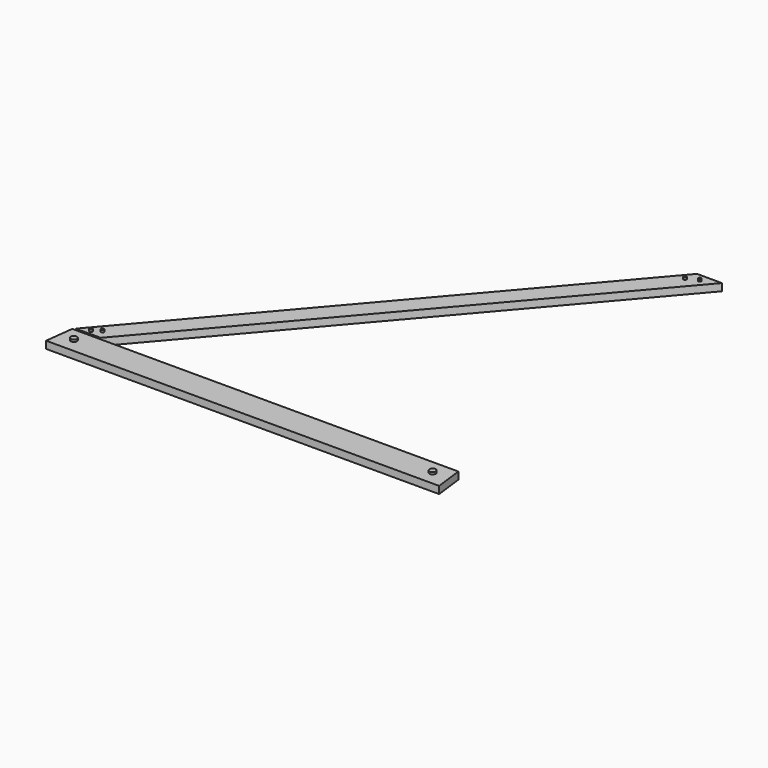
from build123d import *

# Parameters (mm, degrees)
F1_DEPTH = 0.889
F3_DEPTH = 0.381
F4_R     = 0.1778
F4_R_2   = 0.381
F5_DEPTH = 0.254
F7_DEPTH = 25.4


with BuildPart() as f1:
    # F0 (on Top) → F1 (new body)
    with BuildSketch(Plane.XY):
        Polygon((-24.947381, -12.216053), (-26.81388, -12.216053), (-26.81388, -15.690773), (23.98612, -15.690773), (23.98612, -12.216053), (-21.899363, -12.216053), (17.63612, 34.014853), (14.588101, 34.014853), align=None)
    extrude(amount=F1_DEPTH)

    # F2 (on face) → F3 (cut)
    with BuildSketch(Plane.XY.offset(0.889)):
        Polygon((-24.730167, -11.962053), (-24.947381, -12.216053), (-21.899363, -12.216053), (-21.682148, -11.962053), align=None)
    extrude(amount=-F3_DEPTH, mode=Mode.SUBTRACT)

    # F4 (on face) → F5 (join)
    with BuildSketch(Plane.XY.offset(0.889)):
        with Locations((-23.253968, -11.468455)):
            Circle(F4_R)
        with Locations((-22.337059, -10.852045)):
            Circle(F4_R)
        with Locations((-23.38488, -13.950873)):
            Circle(F4_R_2)
        with Locations((15.699644, 33.05497)):
            Circle(F4_R)
        with Locations((14.366657, 32.453973)):
            Circle(F4_R)
        with Locations((20.55712, -13.938173)):
            Circle(F4_R_2)
    extrude(amount=F5_DEPTH)

    # F6 (on face) → F7 (cut)
    with BuildSketch(Plane.XY.offset(0.889)):
        Polygon((-25.387098, -15.690773), (-24.960456, -12.216053), (-26.81388, -12.216053), (-26.81388, -15.690773), align=None)
        Polygon((22.33512, -12.216053), (22.761762, -15.690773), (23.98612, -15.690773), (23.98612, -12.216053), align=None)
    extrude(amount=-F7_DEPTH, mode=Mode.SUBTRACT)


solid = f1.part
